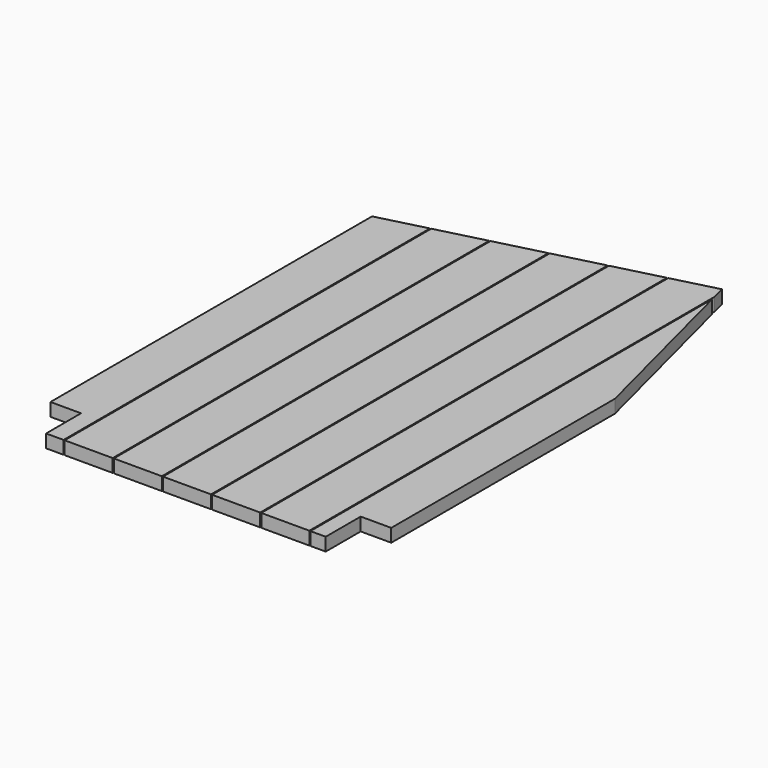
from build123d import *

# Parameters (mm, degrees)
F1_DEPTH = 38.1
F2_W     = 812.8
F2_H     = 127
F3_DEPTH = 38.1
F5_DEPTH = 38.101


with BuildPart() as f1:
    # F0 (on Top) → F1 (new body)
    with BuildSketch(Plane.XY):
        Polygon((0, 1168.4), (0, 0), (990.6, 0), (990.6, 812.8), (843.9349784084, 1384.7935842073), align=None)
    extrude(amount=F1_DEPTH)

    # F2 (on face) → F3 (join)
    with BuildSketch(Plane.XY.offset(38.1)):
        with Locations((495.3, -63.5)):
            Rectangle(F2_W, F2_H)
    extrude(amount=-F3_DEPTH)

    # F4 (on face) → F5 (cut, through all)
    with BuildSketch(Plane.XY.offset(38.1)):
        Polygon((139.7, 1204.2205128205), (139.7, -127), (142.875, -127), (142.875, 1205.0346153846), align=None)
        Polygon((282.575, 1240.8551282051), (282.575, -127), (285.75, -127), (285.75, 1241.6692307692), align=None)
        Polygon((425.45, 1277.4897435897), (425.45, -127), (428.625, -127), (428.625, 1278.3038461538), align=None)
        Polygon((568.325, 1314.1243589744), (568.325, -127), (571.5, -127), (571.5, 1314.9384615385), align=None)
        Polygon((711.2, 1350.758974359), (711.2, -127), (714.375, -127), (714.375, 1351.5730769231), align=None)
        Polygon((854.075, 1345.2475), (854.075, -127), (857.25, -127), (857.25, 1332.865), align=None)
    extrude(amount=-F5_DEPTH, mode=Mode.SUBTRACT)


solid = f1.part
